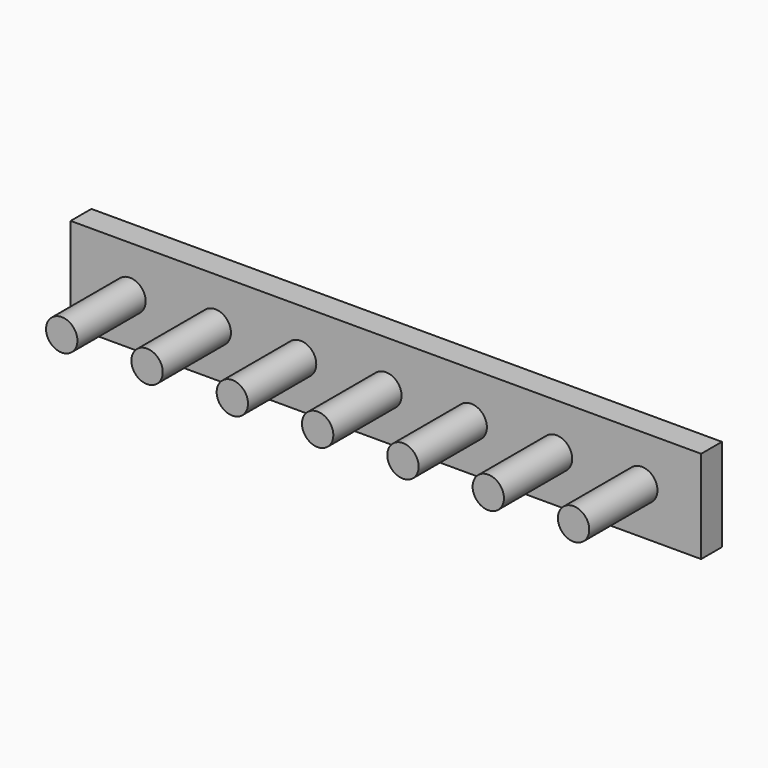
from build123d import *

# Parameters (mm, degrees)
F0_W     = 170
F0_H     = 25
F1_DEPTH = 7
F2_R     = 4.228171
F3_DEPTH = 23


with BuildPart() as f1:
    # F0 (on Front) → F1 (new body)
    with BuildSketch(Plane.XZ):
        with Locations((85, -12.5)):
            Rectangle(F0_W, F0_H)
    extrude(amount=F1_DEPTH)

    # F2 (on face) → F3 (join)
    with BuildSketch(Plane.XZ.offset(7)):
        with Locations((85, -12.5)):
            Circle(F2_R)
        with Locations((108, -12.5)):
            Circle(F2_R)
        with Locations((131, -12.5)):
            Circle(F2_R)
        with Locations((154, -12.5)):
            Circle(F2_R)
        with Locations((62, -12.5)):
            Circle(F2_R)
        with Locations((39, -12.5)):
            Circle(F2_R)
        with Locations((16, -12.5)):
            Circle(F2_R)
    extrude(amount=F3_DEPTH)


solid = f1.part
